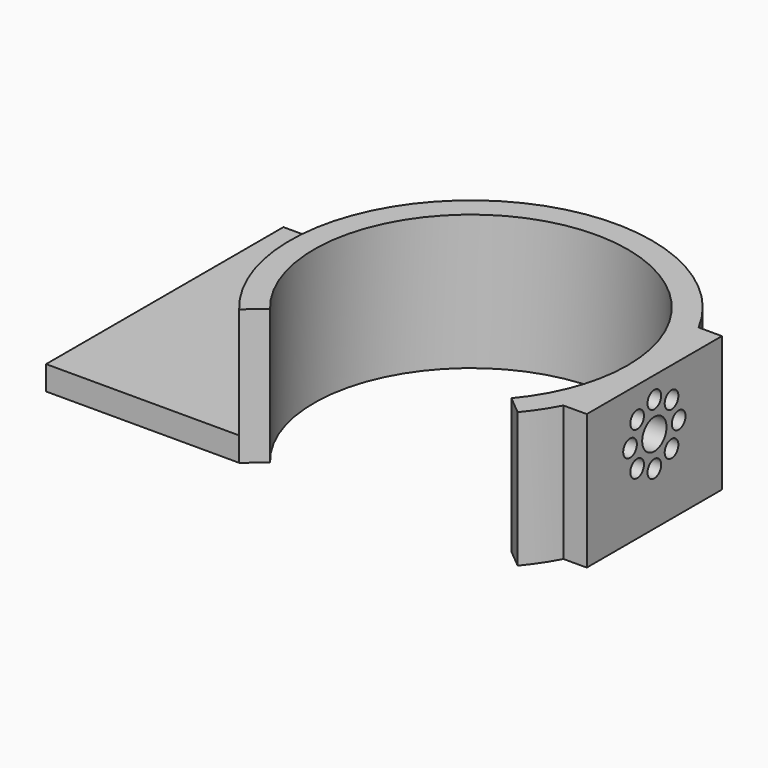
from build123d import *

# Parameters (mm, degrees)
F0_R      = 47.625
F1_DEPTH  = 35.56
F2_R      = 41.275
F3_DEPTH  = 35.561
F5_W      = 44.45
F5_H      = 35.56
F7_R      = 2.2479
F7_R_2    = 4.0005
F8_DEPTH  = 8.2784267637
F10_DEPTH = 35.5610001
F12_DEPTH = 6.35


with BuildPart() as f1:
    # F0 (on Top) → F1 (new body)
    with BuildSketch(Plane.XY):
        Circle(F0_R)
    extrude(amount=F1_DEPTH)

    # F2 (on face) → F3 (cut, through all)
    with BuildSketch(Plane.XY.offset(35.56)):
        Circle(F2_R)
    extrude(amount=-F3_DEPTH, mode=Mode.SUBTRACT)

    # F5 (on offset) → F6 (join, up to the next surface of F1)
    with BuildSketch(Plane.YZ.offset(48.26)):
        with Locations((0, 17.78)):
            Rectangle(F5_W, F5_H)
    extrude(until=Until.NEXT, dir=(-1, 0, 0))

    # F7 (on face) → F8 (cut, through all)
    with BuildSketch(Plane.YZ.offset(48.26)):
        with Locations((0, 29.8958)):
            Circle(F7_R)
        with Locations((-5.6568542495, 27.5526542495)):
            Circle(F7_R)
        with Locations((-8, 21.8958)):
            Circle(F7_R)
        with Locations((-5.6568542495, 16.2389457505)):
            Circle(F7_R)
        with Locations((0, 13.8958)):
            Circle(F7_R)
        with Locations((5.6568542495, 16.2389457505)):
            Circle(F7_R)
        with Locations((8, 21.8958)):
            Circle(F7_R)
        with Locations((5.6568542495, 27.5526542495)):
            Circle(F7_R)
        with Locations((0, 21.8958)):
            Circle(F7_R_2)
    extrude(amount=-F8_DEPTH, mode=Mode.SUBTRACT)

    # F9 (on face) → F10 (cut, through all)
    with BuildSketch(Plane.XY.offset(35.56)):
        Polygon((31.75, -26.3735307648), (-31.75, -26.3735307648), (-65.0275838732, -54.0159679949), (65.0275838732, -54.0159679949), align=None)
    extrude(amount=-F10_DEPTH, mode=Mode.SUBTRACT)

    # F11 (on Top) → F12 (join)
    with BuildSketch(Plane.XY):
        with BuildLine():
            Line((-36.6346153846, -30.4309970363), (-31.75, -26.3735307648))
            ThreePointArc((-31.75, -26.3735307648), (-37.3643754619, 17.536506817), (0, 41.275))
            Line((0, 41.275), (0, 47.625))
            Line((0, 47.625), (-87.4346153846, 47.625))
            Line((-87.4346153846, 47.625), (-87.4346153846, -30.4309970363))
            Line((-87.4346153846, -30.4309970363), (-36.6346153846, -30.4309970363))
        make_face()
    extrude(amount=F12_DEPTH)


solid = f1.part
